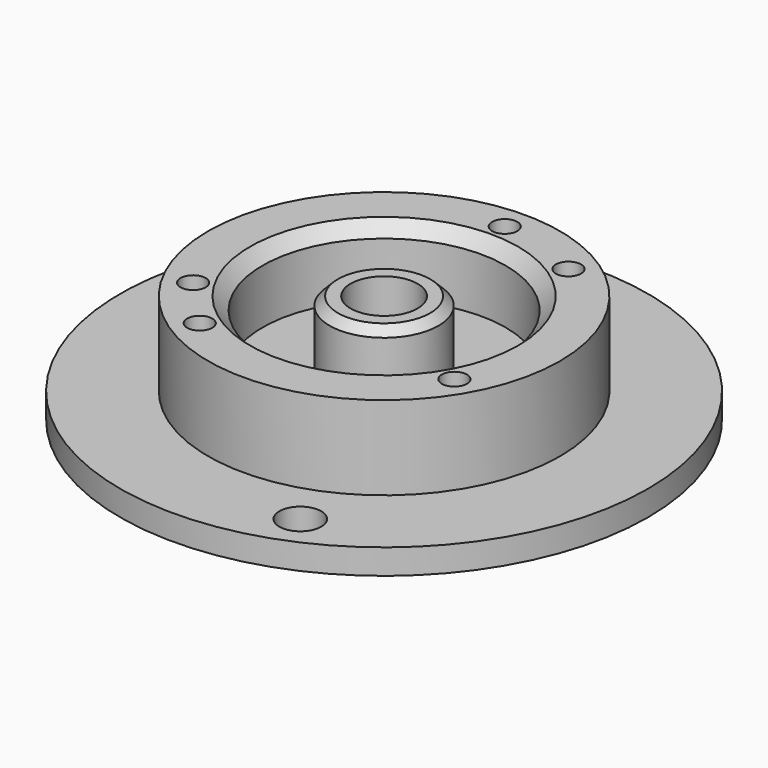
from build123d import *

# Parameters (mm, degrees)
SKETCH_R        = 31.5
SKETCH_R_2      = 4
PAD_DEPTH       = 3
SKETCH001_R     = 21
SKETCH001_R_2   = 14.5
PAD001_DEPTH    = 10
SKETCH002_R     = 14.5
SKETCH002_R_2   = 4
PAD002_DEPTH    = 2
SKETCH003_R     = 6.5
SKETCH003_R_2   = 4
PAD003_DEPTH    = 8
SKETCH005_R     = 2.5
SKETCH005_R_2   = 1.5
POCKET001_DEPTH = 3.001
SKETCH008_R     = 1.5
POCKET_DEPTH    = 13.001
SKETCH007_R     = 1.5
POCKET002_DEPTH = 13.001
CHAMFER_SIZE    = 1.5
CHAMFER001_SIZE = 1


with BuildPart() as part:
    # Sketch → Pad (new body)
    with BuildSketch(Plane.XY):
        Circle(SKETCH_R)
        Circle(SKETCH_R_2, mode=Mode.SUBTRACT)
    extrude(amount=PAD_DEPTH)

    # Sketch001 (on Face4 of Pad) → Pad001 (join)
    with BuildSketch(Plane.XY.offset(3)):
        Circle(SKETCH001_R)
        Circle(SKETCH001_R_2, mode=Mode.SUBTRACT)
    extrude(amount=PAD001_DEPTH)

    # Sketch002 (on Face6 of Pad001) → Pad002 (join)
    with BuildSketch(Plane.XY.offset(3)):
        Circle(SKETCH002_R)
        Circle(SKETCH002_R_2, mode=Mode.SUBTRACT)
    extrude(amount=PAD002_DEPTH)

    # Sketch003 (on Face8 of Pad002) → Pad003 (join)
    with BuildSketch(Plane.XY.offset(5)):
        Circle(SKETCH003_R)
        Circle(SKETCH003_R_2, mode=Mode.SUBTRACT)
    extrude(amount=PAD003_DEPTH)

    # Sketch005 (on Face3 of Pad001) → Pocket001 (cut, through all)
    with BuildSketch(Plane.XY.offset(3)):
        with Locations((-10, 25)):
            Circle(SKETCH005_R)
        with Locations((10, -25)):
            Circle(SKETCH005_R)
        with Locations((-10, -15)):
            Circle(SKETCH005_R_2)
        with Locations((10, 15)):
            Circle(SKETCH005_R_2)
    extrude(amount=-POCKET001_DEPTH, mode=Mode.SUBTRACT)

    # Sketch008 → Pocket (cut, through all)
    with BuildSketch(Plane.XY.offset(13)):
        with Locations((0, 18)):
            Circle(SKETCH008_R)
        with Locations((-15.588457, -9)):
            Circle(SKETCH008_R)
        with Locations((15.588457, -9)):
            Circle(SKETCH008_R)
    extrude(amount=-POCKET_DEPTH, mode=Mode.SUBTRACT)

    # Sketch007 (on Face13 of Pocket001) → Pocket002 (cut, through all)
    with BuildSketch(Plane.XY.offset(13)):
        with Locations((10, 15)):
            Circle(SKETCH007_R)
        with Locations((-10, -15)):
            Circle(SKETCH007_R)
    extrude(amount=-POCKET002_DEPTH, mode=Mode.SUBTRACT)

    # Chamfer
    chamfer_edges = [part.edges().sort_by_distance(p)[0] for p in [
        (-14.5, 0, 13),
    ]]
    chamfer(chamfer_edges, length=CHAMFER_SIZE)

    # Chamfer001
    chamfer001_edges = [part.edges().sort_by_distance(p)[0] for p in [
        (-6.5, 0, 13),
    ]]
    chamfer(chamfer001_edges, length=CHAMFER001_SIZE)


solid = part.part
